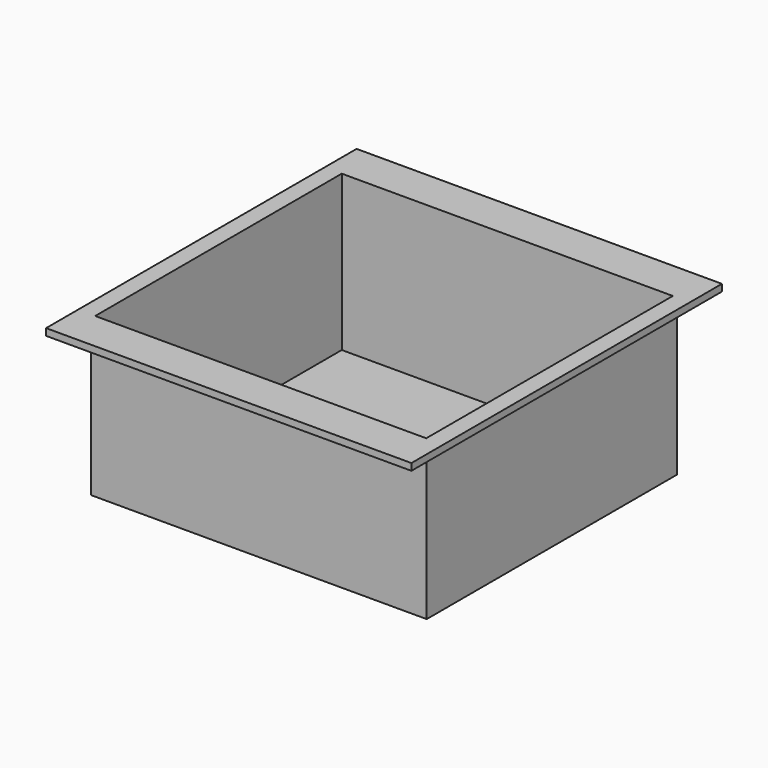
from build123d import *

# Parameters (mm, degrees)
F0_W     = 160
F0_H     = 170
F0_W_2   = 145
F0_H_2   = 135
F1_DEPTH = 3
F2_W     = 147
F2_H     = 137
F2_W_2   = 145
F2_H_2   = 135
F3_DEPTH = 65
F4_W     = 147
F4_H     = 137
F5_DEPTH = 1


with BuildPart() as f1:
    # F0 (on Top) → F1 (new body)
    with BuildSketch(Plane.XY):
        Rectangle(F0_W, F0_H)
        Rectangle(F0_W_2, F0_H_2, mode=Mode.SUBTRACT)
    extrude(amount=-F1_DEPTH)

    # F2 (on face) → F3 (join)
    with BuildSketch(Plane(origin=(0, 0, -3), x_dir=(1, 0, 0), z_dir=(0, 0, -1))):
        Rectangle(F2_W, F2_H)
        Rectangle(F2_W_2, F2_H_2, mode=Mode.SUBTRACT)
    extrude(amount=F3_DEPTH)

    # F4 (on face) → F5 (join)
    with BuildSketch(Plane(origin=(0, 0, -68), x_dir=(1, 0, 0), z_dir=(0, 0, -1))):
        Rectangle(F4_W, F4_H)
    extrude(amount=F5_DEPTH)


solid = f1.part
